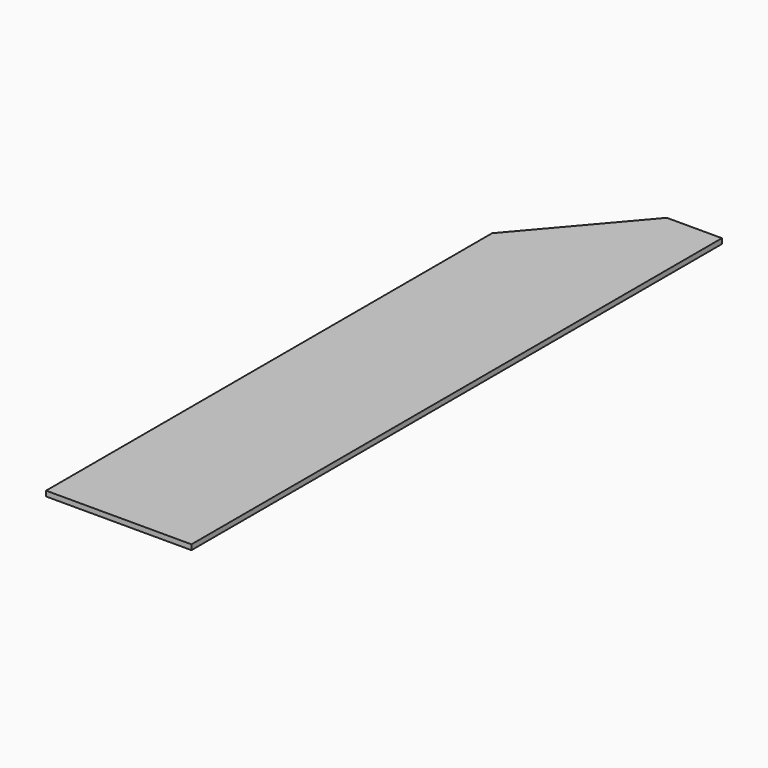
from build123d import *

# Parameters (mm, degrees)
PAD_DEPTH = 19


with BuildPart() as part:
    # Sketch → Pad (new body)
    with BuildSketch(Plane.XY):
        Polygon((0, 0), (0, 2440), (-202.891846, 2440), (-535, 2051.399222), (-535, 0), align=None)
    extrude(amount=PAD_DEPTH)


solid = part.part
